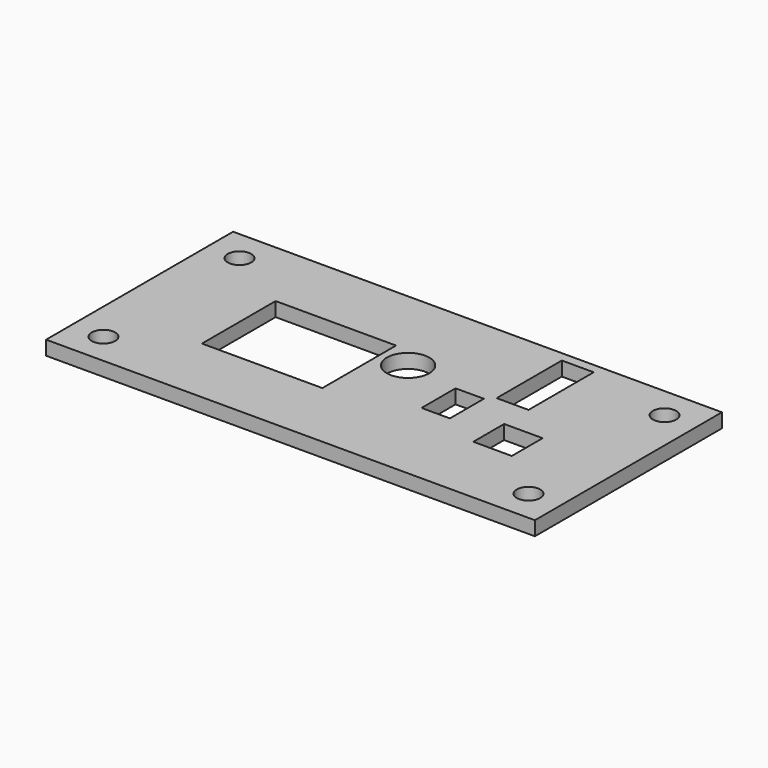
from build123d import *

# Parameters (mm, degrees)
F0_W     = 69
F0_H     = 33
F0_R     = 1.65
F0_W_2   = 4
F0_H_2   = 6
F0_W_3   = 5.43196
F0_H_3   = 5.440751
F0_W_4   = 17
F0_H_4   = 13
F0_R_2   = 3
F0_W_5   = 4.5
F0_H_5   = 11.5
F1_DEPTH = 2


with BuildPart() as f1:
    # F0 (on Top) → F1 (new body)
    with BuildSketch(Plane.XY):
        with Locations((34.5, -16.5)):
            Rectangle(F0_W, F0_H)
        with Locations((4.5, -28.5)):
            Circle(F0_R, mode=Mode.SUBTRACT)
        with Locations((64.5, -28.5)):
            Circle(F0_R, mode=Mode.SUBTRACT)
        with Locations((44.5, -16.87628)):
            Rectangle(F0_W_2, F0_H_2, mode=Mode.SUBTRACT)
        with Locations((54.71598, -19.896655)):
            Rectangle(F0_W_3, F0_H_3, mode=Mode.SUBTRACT)
        with Locations((22.5, -16.5)):
            Rectangle(F0_W_4, F0_H_4, mode=Mode.SUBTRACT)
        with Locations((4.5, -4.5)):
            Circle(F0_R, mode=Mode.SUBTRACT)
        with Locations((35, -12.87628)):
            Circle(F0_R_2, mode=Mode.SUBTRACT)
        with Locations((49.75, -7.12628)):
            Rectangle(F0_W_5, F0_H_5, mode=Mode.SUBTRACT)
        with Locations((64.5, -4.5)):
            Circle(F0_R, mode=Mode.SUBTRACT)
    extrude(amount=F1_DEPTH)


solid = f1.part
